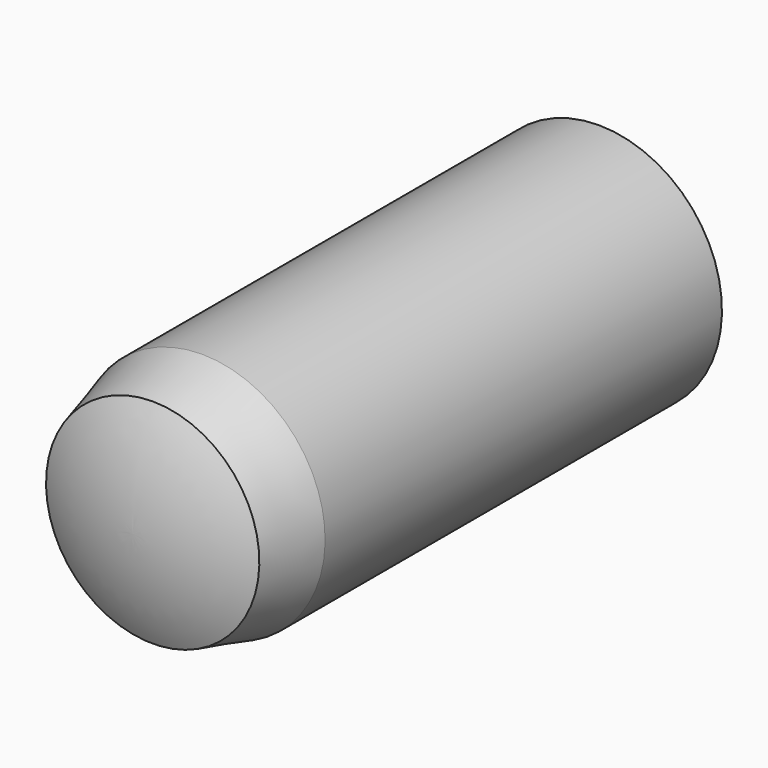
from build123d import *


with BuildPart() as part:
    # Sketch → Revolution (revolve)
    with BuildSketch(Plane.YZ):
        with BuildLine():
            ThreePointArc((0, 1.732051), (-0.298701, 0.888819), (-0.4, 0))
            Line((-0.4, 0), (9.6, 0))
            ThreePointArc((9.6, 0), (9.461638, 1.0363), (9.056244, 2))
            Line((1, 2), (9.056244, 2))
            Line((0, 1.732051), (1, 2))
        make_face()
    revolve(axis=Axis((0, 0, 0), (0, 1, 0)))


solid = part.part
